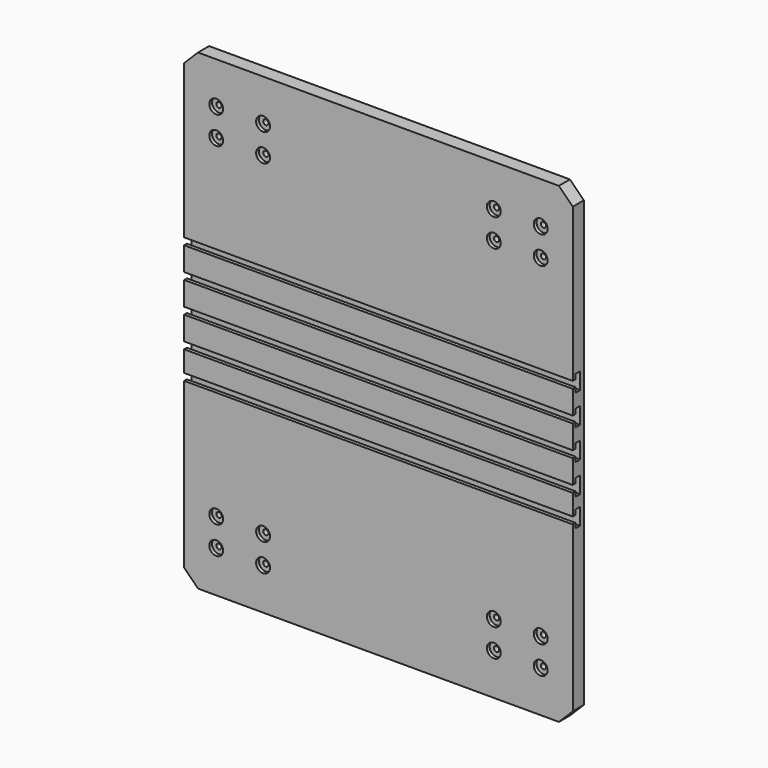
from build123d import *

# Parameters (mm, degrees)
F0_W           = 355.6
F0_H           = 431.8
F1_DEPTH       = 12.7
F2_SIZE2       = 12.7
F2_SIZE        = 12.7
F4_D           = 4.7625
F4_DEPTH       = 76.2
F4_CBORE_D     = 12.7
F4_CBORE_DEPTH = 3.175
F7_DEPTH       = 355.6
F8_R           = 3.175
F8_R_2         = 3.168877
F9_DEPTH       = 9.525


with BuildPart() as f1:
    # F0 (on Front) → F1 (new body)
    with BuildSketch(Plane.XZ):
        with Locations((111.315497, 165.036499)):
            Rectangle(F0_W, F0_H)
    extrude(amount=F1_DEPTH)

    # F2
    f2_edges = [f1.edges().sort_by_distance(p)[0] for p in [
        (-66.484503, -6.35, 380.936499),
        (289.115497, -6.35, 380.936499),
        (289.115497, -6.35, -50.863501),
        (-66.484503, -6.35, -50.863501),
    ]]
    chamfer(f2_edges, length=F2_SIZE, length2=F2_SIZE2)

    # F4
    with Locations(Plane.XZ.offset(12.7)):
        with Locations((-37.122103, 342.836499), (-37.122103, 317.436499), (5.753097, 317.436499), (5.753097, 342.836499), (216.877897, 317.436499), (216.877897, 342.836499), (259.753097, 317.436499), (259.753097, 342.836499), (259.753097, -12.763501), (259.753097, 12.636499), (216.877897, -12.763501), (216.877897, 12.636499), (5.753097, -12.763501), (5.753097, 12.636499), (-37.122103, -12.763501), (-37.122103, 12.636499)):
            CounterBoreHole(F4_D / 2, F4_CBORE_D / 2, F4_CBORE_DEPTH, depth=F4_DEPTH)

    # F6 (on face) → F7 (cut)
    with BuildSketch(Plane.YZ.offset(289.115497)):
        Polygon((-12.7, 172.021613), (-12.7, 165.671613), (-9.525, 165.671613), (-9.525, 161.226613), (-4.445, 161.226613), (-4.445, 176.466613), (-9.525, 176.466613), (-9.525, 172.021613), align=None)
        Polygon((-12.7, 199.961613), (-12.7, 193.611613), (-9.525, 193.611613), (-9.525, 189.166613), (-4.445, 189.166613), (-4.445, 204.406613), (-9.525, 204.406613), (-9.525, 199.961613), align=None)
        Polygon((-9.525, 217.106613), (-4.445, 217.106613), (-4.445, 232.346613), (-9.525, 232.346613), (-9.525, 227.901613), (-12.7, 227.901613), (-12.7, 221.551613), (-9.525, 221.551613), align=None)
        Polygon((-4.445, 133.286613), (-4.445, 148.526613), (-9.525, 148.526613), (-9.525, 144.081613), (-12.7, 144.081613), (-12.7, 137.731613), (-9.525, 137.731613), (-9.525, 133.286613), align=None)
        Polygon((-9.525, 123.126613), (-9.525, 118.681613), (-12.7, 118.681613), (-12.7, 112.331613), (-9.525, 112.331613), (-9.525, 107.886613), (-4.445, 107.886613), (-4.445, 123.126613), align=None)
    extrude(amount=-F7_DEPTH, mode=Mode.SUBTRACT)

    # F8 (on face) → F9 (cut)
    with BuildSketch(Plane.XZ):
        with Locations((149.415433, 368.236363)):
            Circle(F8_R)
        with Locations((73.215485, 368.236423)):
            Circle(F8_R_2)
    extrude(amount=F9_DEPTH, mode=Mode.SUBTRACT)


solid = f1.part
